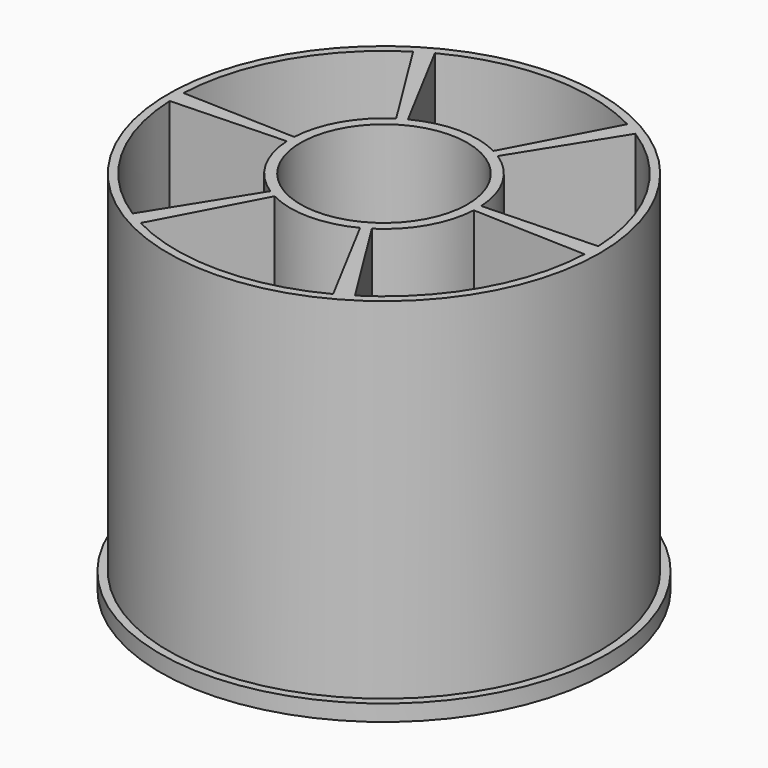
from build123d import *

# Parameters (mm, degrees)
F0_R     = 27.5
F1_DEPTH = 45
F2_R     = 41.570783
F2_R_2   = 26.5
F3_DEPTH = 43
F4_R     = 10.25
F5_DEPTH = 45.001
F7_DEPTH = 45.001


with BuildPart() as f1:
    # F0 (on Top) → F1 (new body)
    with BuildSketch(Plane.XY):
        Circle(F0_R)
    extrude(amount=F1_DEPTH)

    # F2 (on face) → F3 (cut)
    with BuildSketch(Plane.XY.offset(45)):
        Circle(F2_R)
        Circle(F2_R_2, mode=Mode.SUBTRACT)
    extrude(amount=-F3_DEPTH, mode=Mode.SUBTRACT)

    # F4 (on face) → F5 (cut, through all)
    with BuildSketch(Plane.XY.offset(45)):
        Circle(F4_R)
    extrude(amount=-F5_DEPTH, mode=Mode.SUBTRACT)

    # F6 (on face) → F7 (cut, through all)
    with BuildSketch(Plane.XY.offset(45)):
        with BuildLine():
            ThreePointArc((-5.25, 10.231691), (0, 11.5), (5.25, 10.231691))
            Line((5.25, 10.231691), (11.822918, 22.593552))
            ThreePointArc((11.822918, 22.593552), (0, 25.5), (-11.822918, 22.593552))
            Line((-11.822918, 22.593552), (-5.25, 10.231691))
        make_face()
        with BuildLine():
            ThreePointArc((-11.485904, 0.569212), (-9.959292, 5.75), (-6.235904, 9.662479))
            Line((-6.235904, 9.662479), (-13.655131, 21.535724))
            ThreePointArc((-13.655131, 21.535724), (-22.083648, 12.75), (-25.478049, 1.057829))
            Line((-25.478049, 1.057829), (-11.485904, 0.569212))
        make_face()
        with BuildLine():
            ThreePointArc((-6.235904, -9.662479), (-9.959292, -5.75), (-11.485904, -0.569212))
            Line((-11.485904, -0.569212), (-25.478049, -1.057829))
            ThreePointArc((-25.478049, -1.057829), (-22.083648, -12.75), (-13.655131, -21.535724))
            Line((-13.655131, -21.535724), (-6.235904, -9.662479))
        make_face()
        with BuildLine():
            ThreePointArc((5.25, -10.231691), (0, -11.5), (-5.25, -10.231691))
            Line((-5.25, -10.231691), (-11.822918, -22.593552))
            ThreePointArc((-11.822918, -22.593552), (0, -25.5), (11.822918, -22.593552))
            Line((11.822918, -22.593552), (5.25, -10.231691))
        make_face()
        with BuildLine():
            ThreePointArc((11.485904, -0.569212), (9.959292, -5.75), (6.235904, -9.662479))
            Line((6.235904, -9.662479), (13.655131, -21.535724))
            ThreePointArc((13.655131, -21.535724), (22.083648, -12.75), (25.478049, -1.057829))
            Line((25.478049, -1.057829), (11.485904, -0.569212))
        make_face()
        with BuildLine():
            ThreePointArc((6.235904, 9.662479), (9.959292, 5.75), (11.485904, 0.569212))
            Line((11.485904, 0.569212), (25.478049, 1.057829))
            ThreePointArc((25.478049, 1.057829), (22.083648, 12.75), (13.655131, 21.535724))
            Line((13.655131, 21.535724), (6.235904, 9.662479))
        make_face()
    extrude(amount=-F7_DEPTH, mode=Mode.SUBTRACT)


solid = f1.part
